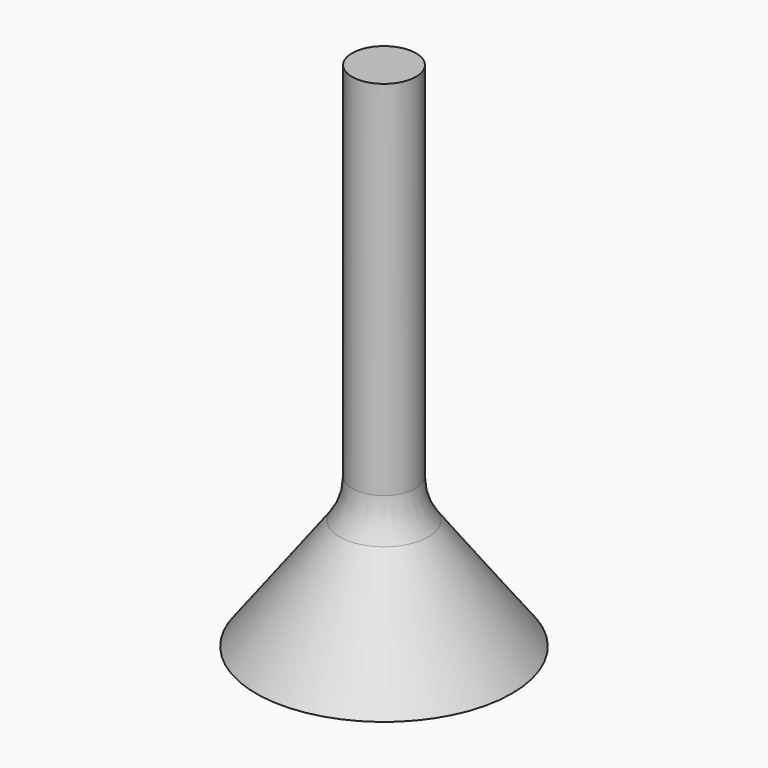
from build123d import *


with BuildPart() as f1:
    # F0 (on Front) → F1 (revolve)
    with BuildSketch(Plane.XZ):
        with BuildLine():
            Line((-2.960044, 10.013128), (-2.960044, 40.013128))
            Line((-2.960044, 40.013128), (-5.460044, 40.013128))
            Line((-5.460044, 40.013128), (-5.460044, 11.679795))
            ThreePointArc((-5.460044, 11.679795), (-5.716627, 10.098656), (-6.460044, 8.679795))
            Line((-6.460044, 8.679795), (-12.960044, 0.013128))
            Line((-12.960044, 0.013128), (-2.960044, 0.013128))
            Line((-2.960044, 0.013128), (-2.960044, 10.013128))
        make_face()
        with BuildLine():
            Line((-2.960044, 10.013128), (-2.960044, 40.013128))
            Line((-2.960044, 40.013128), (-5.460044, 40.013128))
            Line((-5.460044, 40.013128), (-5.460044, 11.679795))
            ThreePointArc((-5.460044, 11.679795), (-5.716627, 10.098656), (-6.460044, 8.679795))
            Line((-6.460044, 8.679795), (-12.960044, 0.013128))
            Line((-12.960044, 0.013128), (-2.960044, 0.013128))
            Line((-2.960044, 0.013128), (-2.960044, 10.013128))
        make_face()
    revolve(axis=Axis((-2.960044, 0, 25.013128), (0, 0, -1)))


solid = f1.part
